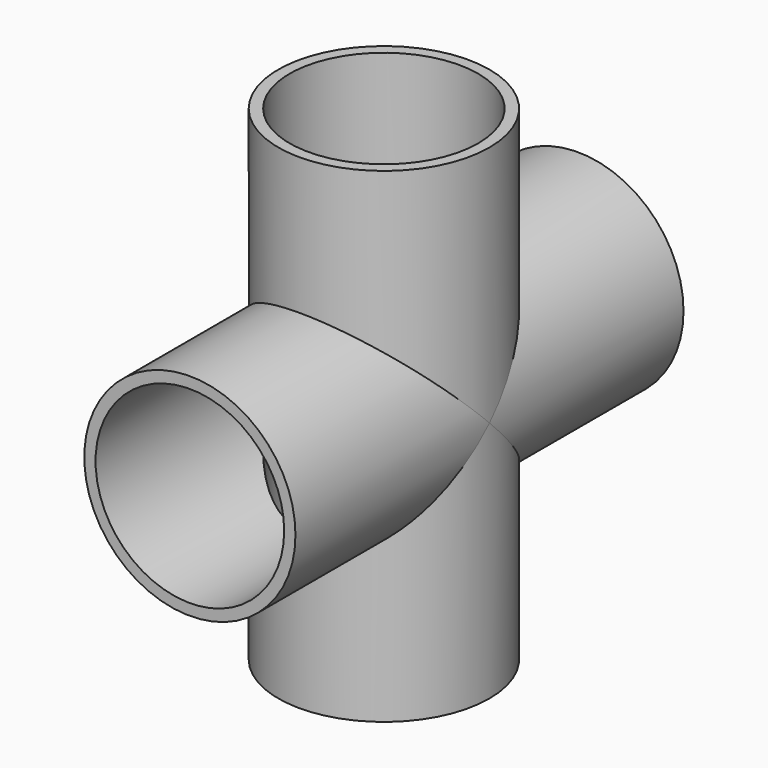
from build123d import *

# Parameters (mm, degrees)
F0_R     = 16.72
F1_DEPTH = 43
F2_R     = 16.72
F3_DEPTH = 43
F4_T     = 2


with BuildPart() as f1:
    # F0 (on Top) → F1 (new body, symmetric)
    with BuildSketch(Plane.XY):
        Circle(F0_R)
    extrude(amount=F1_DEPTH, both=True)

    # F2 (on Front) → F3 (join, symmetric)
    with BuildSketch(Plane.XZ):
        Circle(F2_R)
    extrude(amount=F3_DEPTH, both=True)

    # F4
    f4_openings = [f1.faces().sort_by_distance(p)[0] for p in [
        (0, 0, -43),
        (0, -43, 0),
        (0, 0, 43),
        (0, 43, 0),
    ]]
    offset(amount=F4_T, openings=f4_openings)


solid = f1.part
